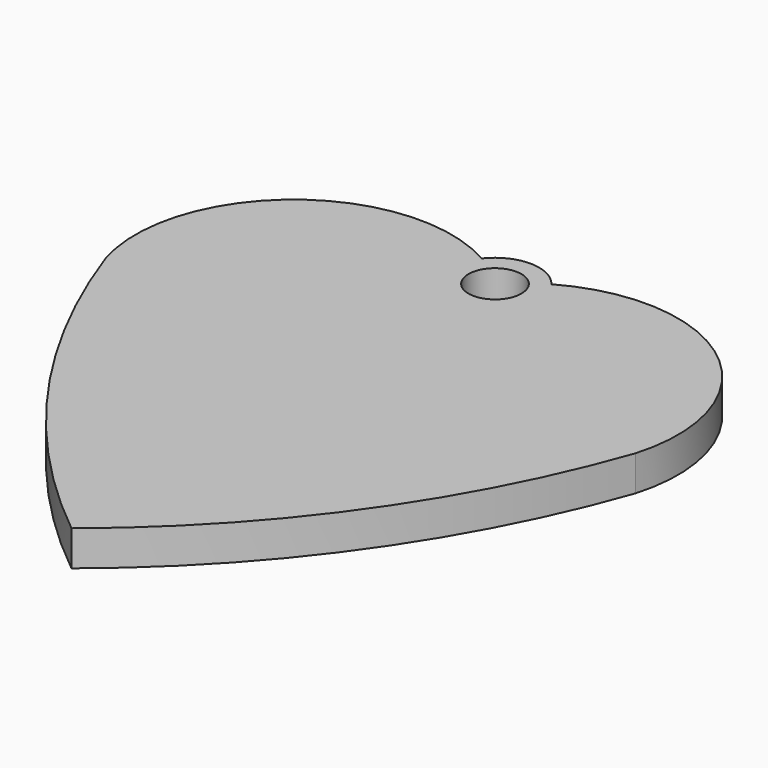
from build123d import *

# Parameters (mm, degrees)
F0_R     = 1.5
F1_DEPTH = 2


with BuildPart() as f1:
    # F0 (on Top) → F1 (new body)
    with BuildSketch(Plane.XY):
        with BuildLine():
            ThreePointArc((-1.978535, 16.528201), (-11.979244, 15.761605), (-15, 6.197251))
            ThreePointArc((-15, 6.197251), (-8.981685, -5.449873), (0, -15))
            ThreePointArc((0, -15), (8.981685, -5.449873), (15, 6.197251))
            ThreePointArc((15, 6.197251), (11.979244, 15.761605), (1.978535, 16.528201))
            ThreePointArc((1.978535, 16.528201), (0, 17.5), (-1.978535, 16.528201))
        make_face()
        with Locations((0, 15)):
            Circle(F0_R, mode=Mode.SUBTRACT)
    extrude(amount=F1_DEPTH)


solid = f1.part
